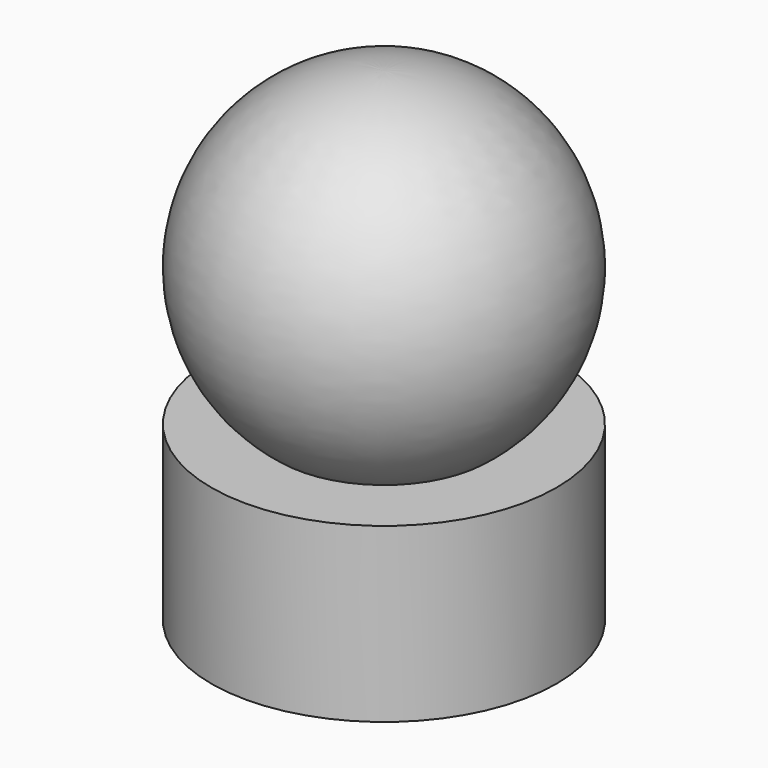
from build123d import *


with BuildPart() as f1:
    # F0 (on Front) → F1 (revolve)
    with BuildSketch(Plane.XZ):
        with BuildLine():
            Line((-3, 5), (0, 5))
            Line((0, 5), (0, 9))
            Line((0, 9), (0, 14))
            ThreePointArc((0, 14), (-4.743416, 10.581139), (-3, 5))
        make_face()
        with BuildLine():
            ThreePointArc((-3, 5), (-1.581139, 4.256584), (0, 4))
            Line((0, 4), (0, 5))
            Line((0, 5), (-3, 5))
        make_face()
        with BuildLine():
            Line((-5, 0), (-2, 0))
            Line((-2, 0), (-2, 2))
            Line((-2, 2), (0, 2))
            Line((0, 2), (0, 4))
            ThreePointArc((0, 4), (-1.581139, 4.256584), (-3, 5))
            Line((-3, 5), (-5, 5))
            Line((-5, 5), (-5, 0))
        make_face()
    revolve(axis=Axis((0, 0, 7), (0, 0, 1)))


solid = f1.part
